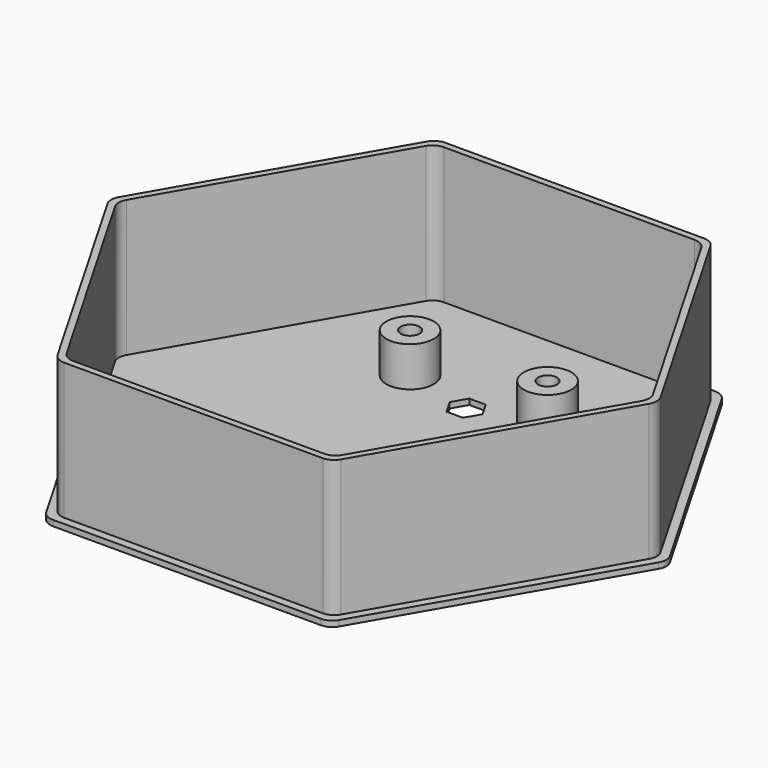
from build123d import *

# Parameters (mm, degrees)
F1_DEPTH  = 0.762
F2_R      = 1.905
F4_DEPTH  = 19.05
F5_R      = 1.905
F7_DEPTH  = 25.4
F8_R      = 1.905
F11_R     = 3.175
F11_R_2   = 1.27
F12_DEPTH = 5.334
F13_DEPTH = 2.54


with BuildPart() as f1:
    # F0 (on Top) → F1 (new body)
    with BuildSketch(Plane.XY):
        Polygon((19.05, 32.995568), (-19.05, 32.995568), (-38.1, 0), (-19.05, -32.995568), (19.05, -32.995568), (38.1, 0), align=None)
    extrude(amount=F1_DEPTH)

    # F2
    f2_edges = [f1.edges().sort_by_distance(p)[0] for p in [
        (38.1, 0, 0.381),
        (19.05, 32.995568, 0.381),
        (-19.05, 32.995568, 0.381),
        (-38.1, 0, 0.381),
        (-19.05, -32.995568, 0.381),
        (19.05, -32.995568, 0.381),
    ]]
    fillet(f2_edges, radius=F2_R)



with BuildPart() as f4:
    # F3 (on Top) → F4 (new body)
    with BuildSketch(Plane.XY):
        Polygon((18.415, 31.895716), (-18.415, 31.895716), (-36.83, 0), (-18.415, -31.895716), (18.415, -31.895716), (36.83, 0), align=None)
    extrude(amount=F4_DEPTH)

    # F5
    f5_edges = [f4.edges().sort_by_distance(p)[0] for p in [
        (-18.415, -31.895716, 9.525),
        (18.415, -31.895716, 9.525),
        (36.83, 0, 9.525),
        (-36.83, 0, 9.525),
        (18.415, 31.895716, 9.525),
        (-18.415, 31.895716, 9.525),
    ]]
    fillet(f5_edges, radius=F5_R)


with BuildPart() as f7:
    # F6 (on Top) → F7 (new body)
    with BuildSketch(Plane.XY):
        Polygon((17.907, 31.015834), (-17.907, 31.015834), (-35.814, 0), (-17.907, -31.015834), (17.907, -31.015834), (35.814, 0), align=None)
    extrude(amount=F7_DEPTH)

    # F8
    f8_edges = [f7.edges().sort_by_distance(p)[0] for p in [
        (-17.907, -31.015834, 12.7),
        (17.907, -31.015834, 12.7),
        (35.814, 0, 12.7),
        (-35.814, 0, 12.7),
        (17.907, 31.015834, 12.7),
        (-17.907, 31.015834, 12.7),
    ]]
    fillet(f8_edges, radius=F8_R)


with BuildPart() as f7_1:
    # F9: moved
    add(f7.part.moved(Location((0, 0, 0.762))))


with BuildPart() as f4_1:
    add(f4.part)

    # F10: cut F7
    add(f7_1.part, mode=Mode.SUBTRACT)


with BuildPart() as f1_1:
    add(f1.part)

    add(f4_1.part)  # F12 merges F4
    # F11 (on face) → F12 (join)
    with BuildSketch(Plane.XY.offset(0.762)):
        with Locations((-9.2075, 15.875)):
            Circle(F11_R)
        with Locations((-9.2075, 15.875)):
            Circle(F11_R_2, mode=Mode.SUBTRACT)
        with Locations((9.2075, 15.875)):
            Circle(F11_R)
        with Locations((9.2075, 15.875)):
            Circle(F11_R_2, mode=Mode.SUBTRACT)
        with Locations((9.2075, -15.875)):
            Circle(F11_R)
        with Locations((9.2075, -15.875)):
            Circle(F11_R_2, mode=Mode.SUBTRACT)
        with Locations((-9.2075, -15.875)):
            Circle(F11_R)
        with Locations((-9.2075, -15.875)):
            Circle(F11_R_2, mode=Mode.SUBTRACT)
    extrude(amount=F12_DEPTH)

    # F11 (on face) → F13 (cut)
    with BuildSketch(Plane.XY.offset(0.762)):
        Polygon((-1.099852, 11.84275), (1.099852, 11.84275), (2.199705, 13.74775), (1.099852, 15.65275), (-1.099852, 15.65275), (-2.199705, 13.74775), align=None)
    extrude(amount=-F13_DEPTH, mode=Mode.SUBTRACT)


solid = f1_1.part
